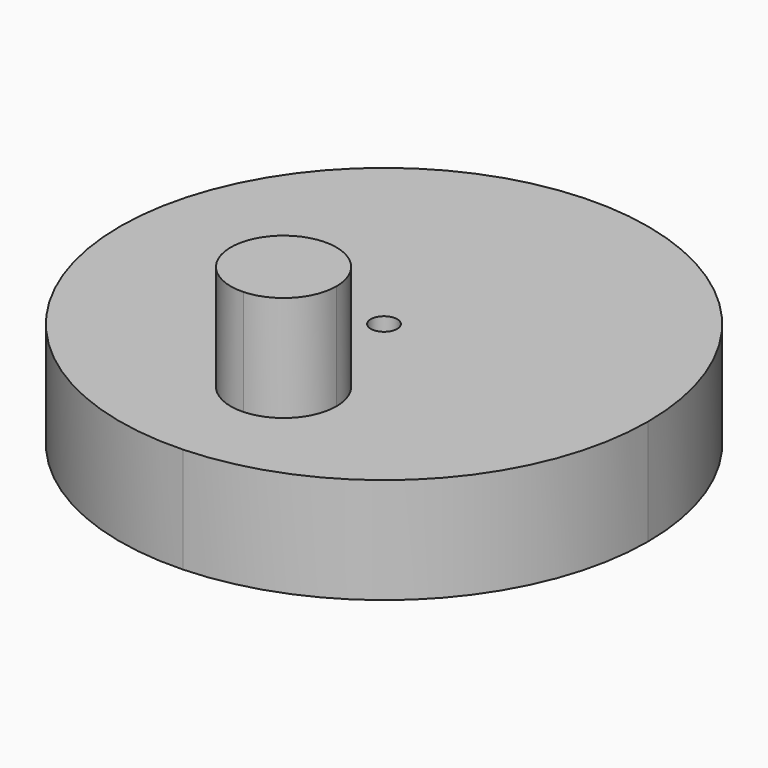
from build123d import *

# Parameters (mm, degrees)
F1_DEPTH = 12.7
F2_DEPTH = 25.4


with BuildPart() as f1:
    # F0 (on Top) → F1 (new body)
    with BuildSketch(Plane.XY):
        with BuildLine():
            ThreePointArc((1.5875, 0), (-1.144027, 1.100617), (0.061379, -1.586313))
            ThreePointArc((0.061379, -1.586313), (1.144027, -1.100617), (1.5875, 0))
        make_face()
        with BuildLine():
            ThreePointArc((1.227574, -31.72626), (22.880537, -22.012349), (31.75, 0))
            ThreePointArc((31.75, 0), (-22.880537, 22.012349), (1.227574, -31.72626))
        make_face()
        with BuildLine():
            ThreePointArc((6.963787, -15.86313), (5.189894, -20.2656), (0.859301, -22.208382))
            ThreePointArc((0.859301, -22.208382), (-5.731465, -16.108645), (0.368272, -9.517878))
            ThreePointArc((0.368272, -9.517878), (5.016257, -11.287022), (6.963787, -15.86313))
        make_face(mode=Mode.SUBTRACT)
        with BuildLine():
            ThreePointArc((1.5875, 0), (1.144027, -1.100617), (0.061379, -1.586313))
            ThreePointArc((0.061379, -1.586313), (-1.144027, 1.100617), (1.5875, 0))
        make_face(mode=Mode.SUBTRACT)
    extrude(amount=F1_DEPTH)

    # F0 (on Top) → F2 (join)
    with BuildSketch(Plane.XY):
        with BuildLine():
            Line((0.368272, -9.517878), (0.859301, -22.208382))
            ThreePointArc((0.859301, -22.208382), (5.189894, -20.2656), (6.963787, -15.86313))
            ThreePointArc((6.963787, -15.86313), (5.016257, -11.287022), (0.368272, -9.517878))
        make_face()
        with BuildLine():
            ThreePointArc((0.368272, -9.517878), (-5.731465, -16.108645), (0.859301, -22.208382))
            Line((0.859301, -22.208382), (0.368272, -9.517878))
        make_face()
    extrude(amount=F2_DEPTH)


solid = f1.part
